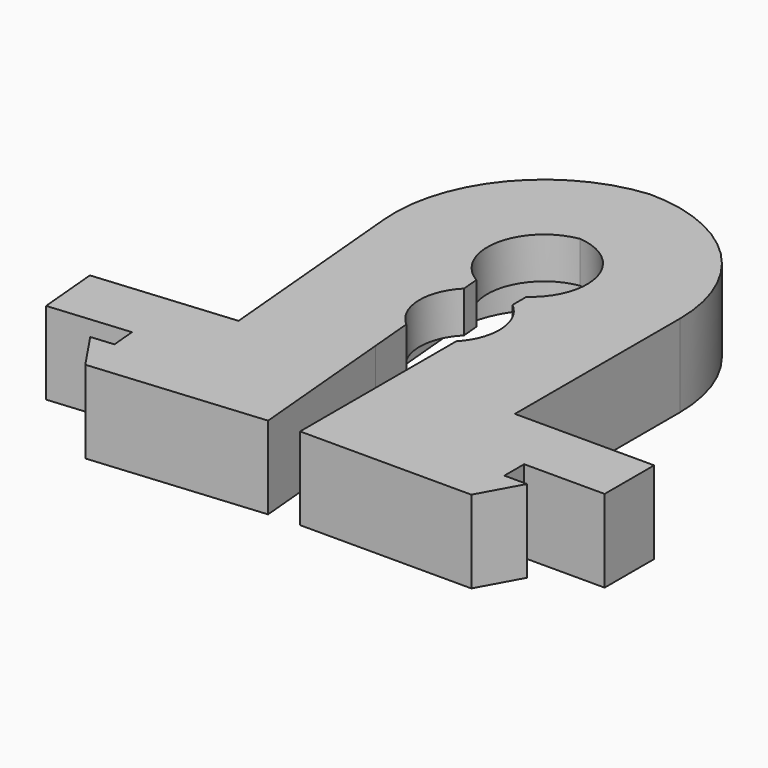
from build123d import *

# Parameters (mm, degrees)
F1_DEPTH = 2
F2_DEPTH = 2


with BuildPart() as f1:
    # F0 (on Top) → F1 (new body, symmetric)
    with BuildSketch(Plane.XY):
        with BuildLine():
            Line((0, 7.25), (0.1344755479, 4.2478719763))
            ThreePointArc((0.1344755479, 4.2478719763), (3.05237785, 2.957277373), (4.25, 0))
            Line((4.25, 0), (4.25, -2.5))
            Line((4.25, -2.5), (4.25, -5))
            ThreePointArc((4.25, -5), (3.5855613229, -7.2817208418), (1.8, -8.85))
            Line((1.8, -8.85), (1.8, -16.2))
            Line((1.8, -16.2), (10.1, -16.2))
            Line((10.1, -16.2), (11.2, -14.2))
            Line((11.2, -14.2), (10.1, -14.2))
            Line((10.1, -14.2), (10.1, -13))
            Line((10.1, -13), (14, -13))
            Line((14, -13), (14, -10))
            Line((14, -10), (7.25, -10))
            Line((7.25, -10), (7.25, -5))
            Line((7.25, -5), (7.25, -2.5))
            Line((7.25, -2.5), (7.25, 0))
            ThreePointArc((7.25, 0), (5.1265241636, 5.1265241636), (0, 7.25))
        make_face()
        with BuildLine():
            ThreePointArc((-3.5847754908, -0.3509463017), (-2.6563522123, 2.7015638934), (0.1344755479, 4.2478719763))
            Line((0.1344755479, 4.2478719763), (0, 7.25))
            ThreePointArc((0, 7.25), (-4.9161386256, 4.6766790635), (-6.5727609006, -0.6191685802))
            Line((-6.5727609006, -0.6191685802), (-6.3492423351, -3.1091564217))
            Line((-6.3492423351, -3.1091564217), (-6.1257237697, -5.5991442632))
            Line((-6.1257237697, -5.5991442632), (-5.6786866388, -10.5791199463))
            Line((-5.6786866388, -10.5791199463), (-12.4016538108, -11.182620073))
            Line((-12.4016538108, -11.182620073), (-12.1334315323, -14.1706054828))
            Line((-12.1334315323, -14.1706054828), (-8.2490504995, -13.8219165207))
            Line((-8.2490504995, -13.8219165207), (-8.1417615881, -15.0171106846))
            Line((-8.1417615881, -15.0171106846), (-9.2373562384, -15.1154588534))
            Line((-9.2373562384, -15.1154588534), (-7.9629467358, -17.0091009579))
            Line((-7.9629467358, -17.0091009579), (0.3038128981, -16.2670193205))
            Line((0.3038128981, -16.2670193205), (-0.3533316844, -8.9464550665))
            ThreePointArc((-0.3533316844, -8.9464550665), (-2.2719578811, -7.5440990943), (-3.1377383598, -5.3309219847))
            Line((-3.1377383598, -5.3309219847), (-3.3612569253, -2.8409341432))
            Line((-3.3612569253, -2.8409341432), (-3.5847754908, -0.3509463017))
        make_face()
        with BuildLine():
            ThreePointArc((-3.5847754908, -0.3509463017), (-2.6563522123, 2.7015638934), (0.1344755479, 4.2478719763))
            Line((0.1344755479, 4.2478719763), (0, 7.25))
            ThreePointArc((0, 7.25), (-4.9161386256, 4.6766790635), (-6.5727609006, -0.6191685802))
            Line((-6.5727609006, -0.6191685802), (-6.3492423351, -3.1091564217))
            Line((-6.3492423351, -3.1091564217), (-6.1257237697, -5.5991442632))
            Line((-6.1257237697, -5.5991442632), (-5.6786866388, -10.5791199463))
            Line((-5.6786866388, -10.5791199463), (-12.4016538108, -11.182620073))
            Line((-12.4016538108, -11.182620073), (-12.1334315323, -14.1706054828))
            Line((-12.1334315323, -14.1706054828), (-8.2490504995, -13.8219165207))
            Line((-8.2490504995, -13.8219165207), (-8.1417615881, -15.0171106846))
            Line((-8.1417615881, -15.0171106846), (-9.2373562384, -15.1154588534))
            Line((-9.2373562384, -15.1154588534), (-7.9629467358, -17.0091009579))
            Line((-7.9629467358, -17.0091009579), (0.3038128981, -16.2670193205))
            Line((0.3038128981, -16.2670193205), (-0.3533316844, -8.9464550665))
            ThreePointArc((-0.3533316844, -8.9464550665), (-2.2719578811, -7.5440990943), (-3.1377383598, -5.3309219847))
            Line((-3.1377383598, -5.3309219847), (-3.3612569253, -2.8409341432))
            Line((-3.3612569253, -2.8409341432), (-3.5847754908, -0.3509463017))
        make_face()
    extrude(amount=F1_DEPTH, both=True)

    # F0 (on Top) → F2 (join)
    with BuildSketch(Plane.XY):
        with BuildLine():
            ThreePointArc((-0.7454173221, -2.3416861616), (-2.0552688347, 0.5327569072), (0.2019027868, 2.7425782149))
            Line((0.2019027868, 2.7425782149), (0.1344755479, 4.2478719763))
            ThreePointArc((0.1344755479, 4.2478719763), (-2.6563522123, 2.7015638934), (-3.5847754908, -0.3509463017))
            Line((-3.5847754908, -0.3509463017), (-3.3612569253, -2.8409341432))
            Line((-3.3612569253, -2.8409341432), (-3.1377383598, -5.3309219847))
            ThreePointArc((-3.1377383598, -5.3309219847), (-2.2719578811, -7.5440990943), (-0.3533316844, -8.9464550665))
            Line((-0.3533316844, -8.9464550665), (-0.5424341882, -6.8398607695))
            ThreePointArc((-0.5424341882, -6.8398607695), (-1.403238856, -5.0381101155), (-0.6700973051, -3.1807481254))
            Line((-0.6700973051, -3.1807481254), (-0.7454173221, -2.3416861616))
        make_face()
        with BuildLine():
            ThreePointArc((0.2019027868, 2.7425782149), (2.6476091797, 0.7434148448), (1.6, -2.2366269246))
            Line((1.6, -2.2366269246), (1.6, -3.0790627288))
            ThreePointArc((1.6, -3.0790627288), (2.4962673742, -4.8634379387), (1.8, -6.7349351573))
            Line((1.8, -6.7349351573), (1.8, -8.85))
            ThreePointArc((1.8, -8.85), (3.5855613229, -7.2817208418), (4.25, -5))
            Line((4.25, -5), (4.25, -2.5))
            Line((4.25, -2.5), (4.25, 0))
            ThreePointArc((4.25, 0), (3.05237785, 2.957277373), (0.1344755479, 4.2478719763))
            Line((0.1344755479, 4.2478719763), (0.2019027868, 2.7425782149))
        make_face()
    extrude(amount=F2_DEPTH)


solid = f1.part
